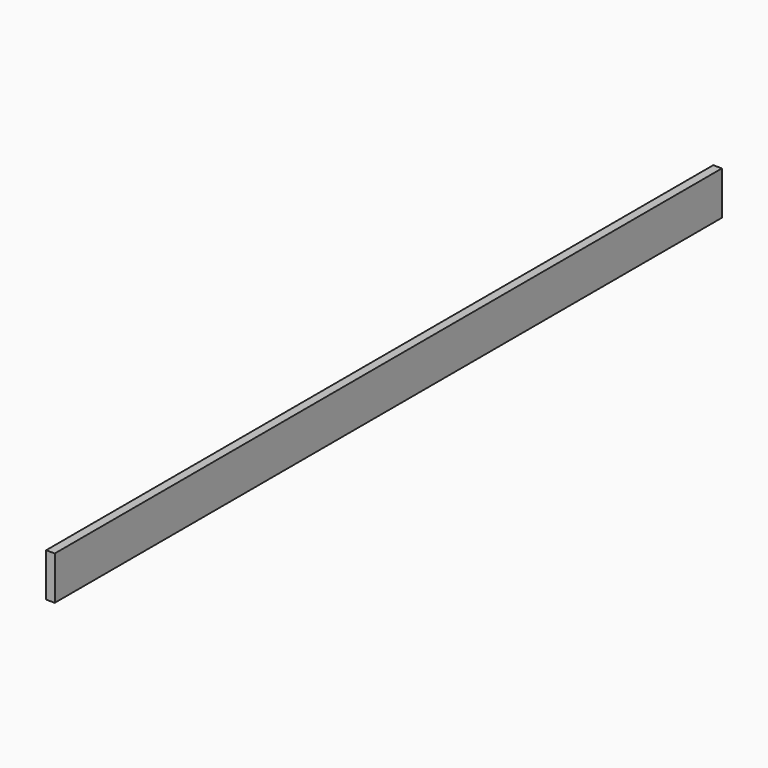
from build123d import *

# Parameters (mm, degrees)
F0_W     = 38.1
F0_H     = 190.5
F1_DEPTH = 3654.425
F2_R     = 1.5875
F3_DEPTH = 25.4


with BuildPart() as f1:
    # F0 (on Front) → F1 (new body)
    with BuildSketch(Plane.XZ):
        Rectangle(F0_W, F0_H)
    extrude(amount=F1_DEPTH)

    # F2 (on face) → F3 (cut)
    with BuildSketch(Plane(origin=(0, 0, 0), x_dir=(-1, 0, 0), z_dir=(0, 1, 0))):
        Circle(F2_R)
    extrude(amount=-F3_DEPTH, mode=Mode.SUBTRACT)


solid = f1.part
